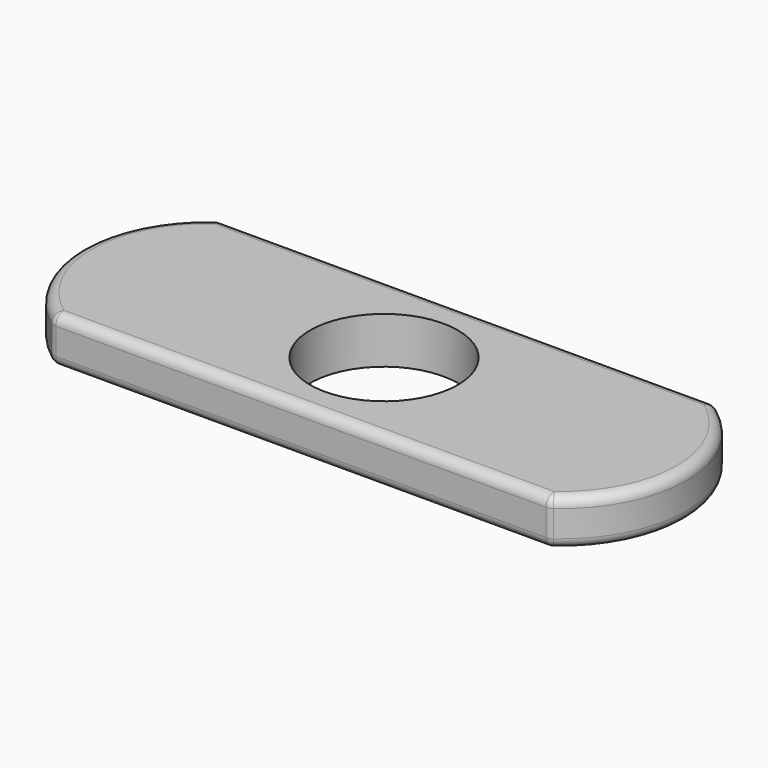
from build123d import *

# Parameters (mm, degrees)
F0_R     = 11.125
F1_DEPTH = 7
F2_R     = 1.5


with BuildPart() as f1:
    # F0 (on Top) → F1 (new body)
    with BuildSketch(Plane.XY):
        with BuildLine():
            Line((37.362388, 15.604942), (-37.362388, 15.604942))
            ThreePointArc((-37.362388, 15.604942), (-45.523302, 0), (-37.362388, -15.604942))
            Line((-37.362388, -15.604942), (37.362388, -15.604942))
            ThreePointArc((37.362388, -15.604942), (45.523302, 0), (37.362388, 15.604942))
        make_face()
        Circle(F0_R, mode=Mode.SUBTRACT)
    extrude(amount=F1_DEPTH)

    # F2
    f2_edges = [f1.edges().sort_by_distance(p)[0] for p in [
        (0, -15.604942, 7),
        (0, -15.604942, 0),
        (-45.523302, 0, 7),
        (-45.523302, 0, 0),
        (0, 15.604942, 7),
        (0, 15.604942, 0),
        (45.523302, 0, 7),
        (45.523302, 0, 0),
        (37.362388, 15.604942, 3.5),
        (-37.362388, 15.604942, 3.5),
        (-37.362388, -15.604942, 3.5),
        (37.362388, -15.604942, 3.5),
    ]]
    fillet(f2_edges, radius=F2_R)


solid = f1.part
